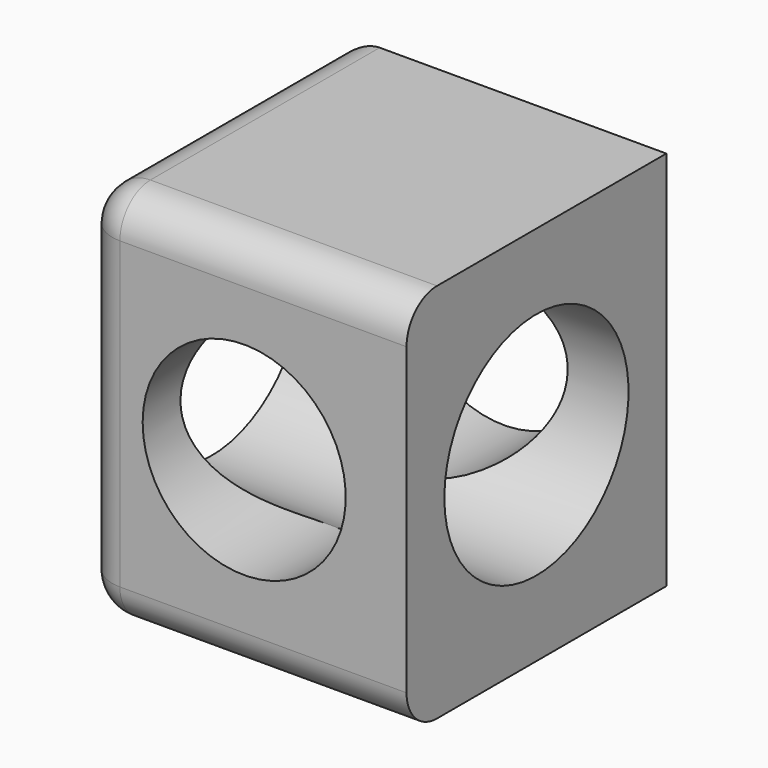
from build123d import *

# Parameters (mm, degrees)
F0_W     = 10.828417
F0_H     = 10.828416
F1_DEPTH = 12.7
F2_R     = 3.838495
F3_DEPTH = 25.4
F4_R     = 3.386017
F5_DEPTH = 25.4
F6_R     = 1.27


with BuildPart() as f1:
    # F0 (on Top) → F1 (new body)
    with BuildSketch(Plane.XY):
        with Locations((-28.725398, 40.155394)):
            Rectangle(F0_W, F0_H)
    extrude(amount=F1_DEPTH)

    # F2 (on face) → F3 (cut)
    with BuildSketch(Plane(origin=(-34.139607, 0, 0), x_dir=(0, -1, 0), z_dir=(-1, 0, 0))):
        with Locations((-40.155394, 6.35)):
            Circle(F2_R)
    extrude(amount=-F3_DEPTH, mode=Mode.SUBTRACT)

    # F4 (on face) → F5 (cut)
    with BuildSketch(Plane(origin=(0, 45.569602, 0), x_dir=(-1, 0, 0), z_dir=(0, 1, 0))):
        with Locations((28.725399, 6.35)):
            Circle(F4_R)
    extrude(amount=-F5_DEPTH, mode=Mode.SUBTRACT)

    # F6
    f6_edges = [f1.edges().sort_by_distance(p)[0] for p in [
        (-34.139607, 40.155394, 12.7),
        (-34.139607, 45.569602, 6.35),
        (-34.139607, 40.155394, 0),
        (-34.139607, 34.741186, 6.35),
        (-28.725399, 34.741186, 12.7),
        (-28.725399, 34.741186, 0),
    ]]
    fillet(f6_edges, radius=F6_R)


solid = f1.part
